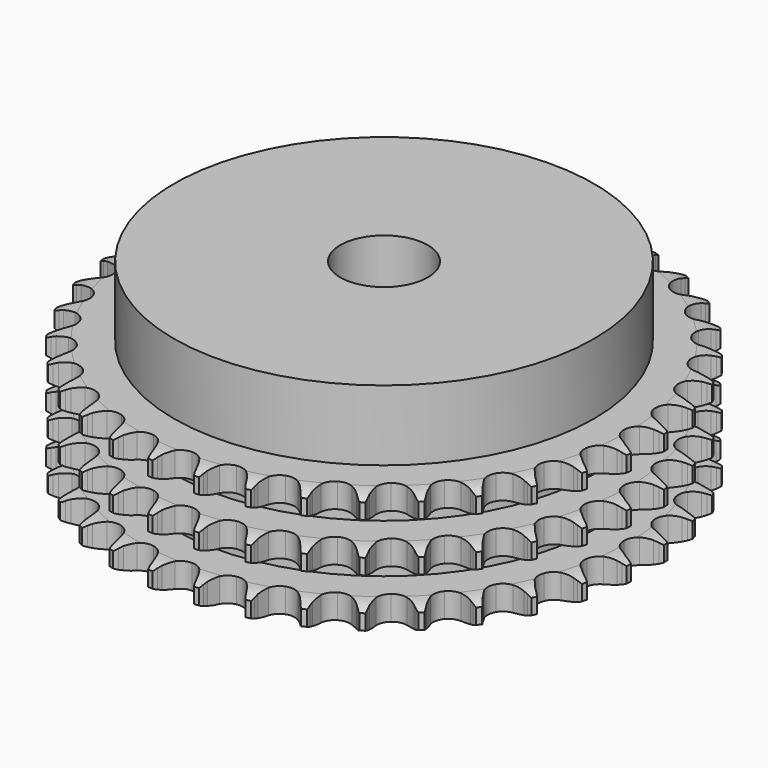
from build123d import *

# Parameters (mm, degrees)
PAD_DEPTH         = 34.9
SKETCH001_R       = 60
PAD001_DEPTH      = 55
SKETCH002_R       = 12.5
POCKET_DEPTH      = 0.001
POCKET_DEPTH_BACK = 55.001


with BuildPart() as part:
    # Sprocket → Pad (new body)
    with BuildSketch(Plane.XY):
        with BuildLine():
            ThreePointArc((-6.681952, 76.375066), (-5.936504, 75.349969), (-5.391044, 74.205858))
            Line((-5.391044, 74.205858), (-4.975926, 73.078951))
            ThreePointArc((-4.975926, 73.078951), (-4.31882, 71.625876), (-3.46066, 70.281713))
            ThreePointArc((-3.46066, 70.281713), (-1.936288, 69.002613), (0, 68.543704))
            ThreePointArc((0, 68.543704), (1.936288, 69.002613), (3.46066, 70.281713))
            ThreePointArc((3.46066, 70.281713), (4.31882, 71.625876), (4.975926, 73.078951))
            Line((4.975926, 73.078951), (5.391044, 74.205858))
            ThreePointArc((5.391044, 74.205858), (5.936504, 75.349969), (6.681952, 76.375066))
            ThreePointArc((6.681952, 76.375066), (7.23807, 75.236097), (7.57657, 74.01465))
            Line((7.57657, 74.01465), (7.789696, 72.832778))
            ThreePointArc((7.789696, 72.832778), (8.184495, 71.287674), (8.796206, 69.814913))
            ThreePointArc((8.796206, 69.814913), (10.075307, 68.290541), (11.902489, 67.502371))
            ThreePointArc((11.902489, 67.502371), (13.889049, 67.618075), (15.612376, 68.613039))
            Line((15.612376, 68.613039), (17.590357, 71.104657))
            ThreePointArc((17.590357, 71.104657), (17.87859, 71.631673), (18.194854, 72.14236))
            ThreePointArc((18.194854, 72.14236), (18.9307, 73.174371), (19.84283, 74.054448))
            ThreePointArc((19.84283, 74.054448), (20.192718, 72.836214), (20.313974, 71.574543))
            Line((20.313974, 71.574543), (20.318632, 70.373618))
            ThreePointArc((20.318632, 70.373618), (20.439129, 68.783431), (20.785805, 67.226823))
            ThreePointArc((20.785805, 67.226823), (21.780768, 65.503496), (23.443328, 64.410013))
            ThreePointArc((23.443328, 64.410013), (25.419799, 64.178997), (27.289718, 64.859592))
            Line((27.289718, 64.859592), (29.670314, 66.969884))
            ThreePointArc((29.670314, 66.969884), (30.045683, 67.438842), (30.445823, 67.886852))
            ThreePointArc((30.445823, 67.886852), (31.349696, 68.775406), (32.400792, 69.483724))
            ThreePointArc((32.400792, 69.483724), (32.533822, 68.22324), (32.434148, 66.95968))
            Line((32.434148, 66.95968), (32.230197, 65.776191))
            ThreePointArc((32.230197, 65.776191), (32.07273, 64.189238), (32.143837, 62.596079))
            ThreePointArc((32.143837, 62.596079), (32.824432, 60.72616), (34.271852, 59.360589))
            ThreePointArc((34.271852, 59.360589), (36.178181, 58.789872), (38.137876, 59.135419))
            Line((38.137876, 59.135419), (40.848754, 60.800265))
            ThreePointArc((40.848754, 60.800265), (41.299854, 61.196917), (41.77171, 61.568637))
            ThreePointArc((41.77171, 61.568637), (42.816148, 62.286736), (43.974274, 62.801771))
            ThreePointArc((43.974274, 62.801771), (43.886401, 61.537337), (43.568827, 60.310282))
            Line((43.568827, 60.310282), (43.162463, 59.180188))
            ThreePointArc((43.162463, 59.180188), (42.731818, 57.644689), (42.525195, 56.063385))
            ThreePointArc((42.525195, 56.063385), (42.870742, 54.10369), (44.059044, 52.507524))
            ThreePointArc((44.059044, 52.507524), (45.837307, 51.614446), (47.827234, 51.614446))
            Line((47.827234, 51.614446), (50.786025, 52.78326))
            ThreePointArc((50.786025, 52.78326), (51.299149, 53.095554), (51.828386, 53.379689))
            ThreePointArc((51.828386, 53.379689), (52.981653, 53.905514), (54.211619, 54.211619))
            ThreePointArc((54.211619, 54.211619), (53.905514, 52.981653), (53.379689, 51.828386))
            Line((53.379689, 51.828386), (52.78326, 50.786025))
            ThreePointArc((52.78326, 50.786025), (52.09252, 49.348634), (51.614446, 47.827234))
            ThreePointArc((51.614446, 47.827234), (51.614446, 45.837307), (52.507524, 44.059044))
            ThreePointArc((52.507524, 44.059044), (54.10369, 42.870742), (56.063385, 42.525195))
            Line((56.063385, 42.525195), (59.180188, 43.162463))
            ThreePointArc((59.180188, 43.162463), (59.739746, 43.380909), (60.310282, 43.568827))
            ThreePointArc((60.310282, 43.568827), (61.537337, 43.886401), (62.801771, 43.974274))
            ThreePointArc((62.801771, 43.974274), (62.286736, 42.816148), (61.568637, 41.77171))
            Line((61.568637, 41.77171), (60.800265, 40.848754))
            ThreePointArc((60.800265, 40.848754), (59.870418, 39.553146), (59.135419, 38.137876))
            ThreePointArc((59.135419, 38.137876), (58.789872, 36.178181), (59.360589, 34.271852))
            ThreePointArc((59.360589, 34.271852), (60.72616, 32.824432), (62.596079, 32.143837))
            Line((62.596079, 32.143837), (65.776191, 32.230197))
            ThreePointArc((65.776191, 32.230197), (66.365181, 32.348157), (66.95968, 32.434148))
            ThreePointArc((66.95968, 32.434148), (68.22324, 32.533822), (69.483724, 32.400792))
            ThreePointArc((69.483724, 32.400792), (68.775406, 31.349696), (67.886852, 30.445823))
            Line((67.886852, 30.445823), (66.969884, 29.670314))
            ThreePointArc((66.969884, 29.670314), (65.829184, 28.555856), (64.859592, 27.289718))
            ThreePointArc((64.859592, 27.289718), (64.178997, 25.419799), (64.410013, 23.443328))
            ThreePointArc((64.410013, 23.443328), (65.503496, 21.780768), (67.226823, 20.785805))
            Line((67.226823, 20.785805), (70.373618, 20.318632))
            ThreePointArc((70.373618, 20.318632), (70.974143, 20.332524), (71.574543, 20.313974))
            ThreePointArc((71.574543, 20.313974), (72.836214, 20.192718), (74.054448, 19.84283))
            ThreePointArc((74.054448, 19.84283), (73.174371, 18.9307), (72.14236, 18.194854))
            Line((72.14236, 18.194854), (71.104657, 17.590357))
            ThreePointArc((71.104657, 17.590357), (69.787763, 16.69091), (68.613039, 15.612376))
            ThreePointArc((68.613039, 15.612376), (67.618075, 13.889049), (67.502371, 11.902489))
            ThreePointArc((67.502371, 11.902489), (68.290541, 10.075307), (69.814913, 8.796206))
            Line((69.814913, 8.796206), (72.832778, 7.789696))
            ThreePointArc((72.832778, 7.789696), (73.426592, 7.699096), (74.01465, 7.57657))
            ThreePointArc((74.01465, 7.57657), (75.236097, 7.23807), (76.375066, 6.681952))
            ThreePointArc((76.375066, 6.681952), (75.349969, 5.936504), (74.205858, 5.391044))
            Line((74.205858, 5.391044), (73.078951, 4.975926))
            ThreePointArc((73.078951, 4.975926), (71.625876, 4.31882), (70.281713, 3.46066))
            ThreePointArc((70.281713, 3.46066), (69.002613, 1.936288), (68.543704, 0))
            ThreePointArc((68.543704, 0), (69.002613, -1.936288), (70.281713, -3.46066))
            Line((70.281713, -3.46066), (73.078951, -4.975926))
            ThreePointArc((73.078951, -4.975926), (73.648011, -5.168264), (74.205858, -5.391044))
            ThreePointArc((74.205858, -5.391044), (75.349969, -5.936504), (76.375066, -6.681952))
            ThreePointArc((76.375066, -6.681952), (75.236097, -7.23807), (74.01465, -7.57657))
            Line((74.01465, -7.57657), (72.832778, -7.789696))
            ThreePointArc((72.832778, -7.789696), (71.287674, -8.184495), (69.814913, -8.796206))
            ThreePointArc((69.814913, -8.796206), (68.290541, -10.075307), (67.502371, -11.902489))
            ThreePointArc((67.502371, -11.902489), (67.618075, -13.889049), (68.613039, -15.612376))
            Line((68.613039, -15.612376), (71.104657, -17.590357))
            ThreePointArc((71.104657, -17.590357), (71.631673, -17.87859), (72.14236, -18.194854))
            ThreePointArc((72.14236, -18.194854), (73.174371, -18.9307), (74.054448, -19.84283))
            ThreePointArc((74.054448, -19.84283), (72.836214, -20.192718), (71.574543, -20.313974))
            Line((71.574543, -20.313974), (70.373618, -20.318632))
            ThreePointArc((70.373618, -20.318632), (68.783431, -20.439129), (67.226823, -20.785805))
            ThreePointArc((67.226823, -20.785805), (65.503496, -21.780768), (64.410013, -23.443328))
            ThreePointArc((64.410013, -23.443328), (64.178997, -25.419799), (64.859592, -27.289718))
            Line((64.859592, -27.289718), (66.969884, -29.670314))
            ThreePointArc((66.969884, -29.670314), (67.438842, -30.045683), (67.886852, -30.445823))
            ThreePointArc((67.886852, -30.445823), (68.775406, -31.349696), (69.483724, -32.400792))
            ThreePointArc((69.483724, -32.400792), (68.22324, -32.533822), (66.95968, -32.434148))
            Line((66.95968, -32.434148), (65.776191, -32.230197))
            ThreePointArc((65.776191, -32.230197), (64.189238, -32.07273), (62.596079, -32.143837))
            ThreePointArc((62.596079, -32.143837), (60.72616, -32.824432), (59.360589, -34.271852))
            ThreePointArc((59.360589, -34.271852), (58.789872, -36.178181), (59.135419, -38.137876))
            Line((59.135419, -38.137876), (60.800265, -40.848754))
            ThreePointArc((60.800265, -40.848754), (61.196917, -41.299854), (61.568637, -41.77171))
            ThreePointArc((61.568637, -41.77171), (62.286736, -42.816148), (62.801771, -43.974274))
            ThreePointArc((62.801771, -43.974274), (61.537337, -43.886401), (60.310282, -43.568827))
            Line((60.310282, -43.568827), (59.180188, -43.162463))
            ThreePointArc((59.180188, -43.162463), (57.644689, -42.731818), (56.063385, -42.525195))
            ThreePointArc((56.063385, -42.525195), (54.10369, -42.870742), (52.507524, -44.059044))
            ThreePointArc((52.507524, -44.059044), (51.614446, -45.837307), (51.614446, -47.827234))
            Line((51.614446, -47.827234), (52.78326, -50.786025))
            ThreePointArc((52.78326, -50.786025), (53.095554, -51.299149), (53.379689, -51.828386))
            ThreePointArc((53.379689, -51.828386), (53.905514, -52.981653), (54.211619, -54.211619))
            ThreePointArc((54.211619, -54.211619), (52.981653, -53.905514), (51.828386, -53.379689))
            Line((51.828386, -53.379689), (50.786025, -52.78326))
            ThreePointArc((50.786025, -52.78326), (49.348634, -52.09252), (47.827234, -51.614446))
            ThreePointArc((47.827234, -51.614446), (45.837307, -51.614446), (44.059044, -52.507524))
            ThreePointArc((44.059044, -52.507524), (42.870742, -54.10369), (42.525195, -56.063385))
            Line((42.525195, -56.063385), (43.162463, -59.180188))
            ThreePointArc((43.162463, -59.180188), (43.380909, -59.739746), (43.568827, -60.310282))
            ThreePointArc((43.568827, -60.310282), (43.886401, -61.537337), (43.974274, -62.801771))
            ThreePointArc((43.974274, -62.801771), (42.816148, -62.286736), (41.77171, -61.568637))
            Line((41.77171, -61.568637), (40.848754, -60.800265))
            ThreePointArc((40.848754, -60.800265), (39.553146, -59.870418), (38.137876, -59.135419))
            ThreePointArc((38.137876, -59.135419), (36.178181, -58.789872), (34.271852, -59.360589))
            ThreePointArc((34.271852, -59.360589), (32.824432, -60.72616), (32.143837, -62.596079))
            Line((32.143837, -62.596079), (32.230197, -65.776191))
            ThreePointArc((32.230197, -65.776191), (32.348157, -66.365181), (32.434148, -66.95968))
            ThreePointArc((32.434148, -66.95968), (32.533822, -68.22324), (32.400792, -69.483724))
            ThreePointArc((32.400792, -69.483724), (31.349696, -68.775406), (30.445823, -67.886852))
            Line((30.445823, -67.886852), (29.670314, -66.969884))
            ThreePointArc((29.670314, -66.969884), (28.555856, -65.829184), (27.289718, -64.859592))
            ThreePointArc((27.289718, -64.859592), (25.419799, -64.178997), (23.443328, -64.410013))
            ThreePointArc((23.443328, -64.410013), (21.780768, -65.503496), (20.785805, -67.226823))
            Line((20.785805, -67.226823), (20.318632, -70.373618))
            ThreePointArc((20.318632, -70.373618), (20.332524, -70.974143), (20.313974, -71.574543))
            ThreePointArc((20.313974, -71.574543), (20.192718, -72.836214), (19.84283, -74.054448))
            ThreePointArc((19.84283, -74.054448), (18.9307, -73.174371), (18.194854, -72.14236))
            Line((18.194854, -72.14236), (17.590357, -71.104657))
            ThreePointArc((17.590357, -71.104657), (16.69091, -69.787763), (15.612376, -68.613039))
            ThreePointArc((15.612376, -68.613039), (13.889049, -67.618075), (11.902489, -67.502371))
            ThreePointArc((11.902489, -67.502371), (10.075307, -68.290541), (8.796206, -69.814913))
            Line((8.796206, -69.814913), (7.789696, -72.832778))
            ThreePointArc((7.789696, -72.832778), (7.699096, -73.426592), (7.57657, -74.01465))
            ThreePointArc((7.57657, -74.01465), (7.23807, -75.236097), (6.681952, -76.375066))
            ThreePointArc((6.681952, -76.375066), (5.936504, -75.349969), (5.391044, -74.205858))
            Line((5.391044, -74.205858), (4.975926, -73.078951))
            ThreePointArc((4.975926, -73.078951), (4.31882, -71.625876), (3.46066, -70.281713))
            ThreePointArc((3.46066, -70.281713), (1.936288, -69.002613), (0, -68.543704))
            ThreePointArc((0, -68.543704), (-1.936288, -69.002613), (-3.46066, -70.281713))
            Line((-3.46066, -70.281713), (-4.975926, -73.078951))
            ThreePointArc((-4.975926, -73.078951), (-5.168264, -73.648011), (-5.391044, -74.205858))
            ThreePointArc((-5.391044, -74.205858), (-5.936504, -75.349969), (-6.681952, -76.375066))
            ThreePointArc((-6.681952, -76.375066), (-7.23807, -75.236097), (-7.57657, -74.01465))
            Line((-7.57657, -74.01465), (-7.789696, -72.832778))
            ThreePointArc((-7.789696, -72.832778), (-8.184495, -71.287674), (-8.796206, -69.814913))
            ThreePointArc((-8.796206, -69.814913), (-10.075307, -68.290541), (-11.902489, -67.502371))
            ThreePointArc((-11.902489, -67.502371), (-13.889049, -67.618075), (-15.612376, -68.613039))
            Line((-15.612376, -68.613039), (-17.590357, -71.104657))
            ThreePointArc((-17.590357, -71.104657), (-17.87859, -71.631673), (-18.194854, -72.14236))
            ThreePointArc((-18.194854, -72.14236), (-18.9307, -73.174371), (-19.84283, -74.054448))
            ThreePointArc((-19.84283, -74.054448), (-20.192718, -72.836214), (-20.313974, -71.574543))
            Line((-20.313974, -71.574543), (-20.318632, -70.373618))
            ThreePointArc((-20.318632, -70.373618), (-20.439129, -68.783431), (-20.785805, -67.226823))
            ThreePointArc((-20.785805, -67.226823), (-21.780768, -65.503496), (-23.443328, -64.410013))
            ThreePointArc((-23.443328, -64.410013), (-25.419799, -64.178997), (-27.289718, -64.859592))
            Line((-27.289718, -64.859592), (-29.670314, -66.969884))
            ThreePointArc((-29.670314, -66.969884), (-30.045683, -67.438842), (-30.445823, -67.886852))
            ThreePointArc((-30.445823, -67.886852), (-31.349696, -68.775406), (-32.400792, -69.483724))
            ThreePointArc((-32.400792, -69.483724), (-32.533822, -68.22324), (-32.434148, -66.95968))
            Line((-32.434148, -66.95968), (-32.230197, -65.776191))
            ThreePointArc((-32.230197, -65.776191), (-32.07273, -64.189238), (-32.143837, -62.596079))
            ThreePointArc((-32.143837, -62.596079), (-32.824432, -60.72616), (-34.271852, -59.360589))
            ThreePointArc((-34.271852, -59.360589), (-36.178181, -58.789872), (-38.137876, -59.135419))
            Line((-38.137876, -59.135419), (-40.848754, -60.800265))
            ThreePointArc((-40.848754, -60.800265), (-41.299854, -61.196917), (-41.77171, -61.568637))
            ThreePointArc((-41.77171, -61.568637), (-42.816148, -62.286736), (-43.974274, -62.801771))
            ThreePointArc((-43.974274, -62.801771), (-43.886401, -61.537337), (-43.568827, -60.310282))
            Line((-43.568827, -60.310282), (-43.162463, -59.180188))
            ThreePointArc((-43.162463, -59.180188), (-42.731818, -57.644689), (-42.525195, -56.063385))
            ThreePointArc((-42.525195, -56.063385), (-42.870742, -54.10369), (-44.059044, -52.507524))
            ThreePointArc((-44.059044, -52.507524), (-45.837307, -51.614446), (-47.827234, -51.614446))
            Line((-47.827234, -51.614446), (-50.786025, -52.78326))
            ThreePointArc((-50.786025, -52.78326), (-51.299149, -53.095554), (-51.828386, -53.379689))
            ThreePointArc((-51.828386, -53.379689), (-52.981653, -53.905514), (-54.211619, -54.211619))
            ThreePointArc((-54.211619, -54.211619), (-53.905514, -52.981653), (-53.379689, -51.828386))
            Line((-53.379689, -51.828386), (-52.78326, -50.786025))
            ThreePointArc((-52.78326, -50.786025), (-52.09252, -49.348634), (-51.614446, -47.827234))
            ThreePointArc((-51.614446, -47.827234), (-51.614446, -45.837307), (-52.507524, -44.059044))
            ThreePointArc((-52.507524, -44.059044), (-54.10369, -42.870742), (-56.063385, -42.525195))
            Line((-56.063385, -42.525195), (-59.180188, -43.162463))
            ThreePointArc((-59.180188, -43.162463), (-59.739746, -43.380909), (-60.310282, -43.568827))
            ThreePointArc((-60.310282, -43.568827), (-61.537337, -43.886401), (-62.801771, -43.974274))
            ThreePointArc((-62.801771, -43.974274), (-62.286736, -42.816148), (-61.568637, -41.77171))
            Line((-61.568637, -41.77171), (-60.800265, -40.848754))
            ThreePointArc((-60.800265, -40.848754), (-59.870418, -39.553146), (-59.135419, -38.137876))
            ThreePointArc((-59.135419, -38.137876), (-58.789872, -36.178181), (-59.360589, -34.271852))
            ThreePointArc((-59.360589, -34.271852), (-60.72616, -32.824432), (-62.596079, -32.143837))
            Line((-62.596079, -32.143837), (-65.776191, -32.230197))
            ThreePointArc((-65.776191, -32.230197), (-66.365181, -32.348157), (-66.95968, -32.434148))
            ThreePointArc((-66.95968, -32.434148), (-68.22324, -32.533822), (-69.483724, -32.400792))
            ThreePointArc((-69.483724, -32.400792), (-68.775406, -31.349696), (-67.886852, -30.445823))
            Line((-67.886852, -30.445823), (-66.969884, -29.670314))
            ThreePointArc((-66.969884, -29.670314), (-65.829184, -28.555856), (-64.859592, -27.289718))
            ThreePointArc((-64.859592, -27.289718), (-64.178997, -25.419799), (-64.410013, -23.443328))
            ThreePointArc((-64.410013, -23.443328), (-65.503496, -21.780768), (-67.226823, -20.785805))
            Line((-67.226823, -20.785805), (-70.373618, -20.318632))
            ThreePointArc((-70.373618, -20.318632), (-70.974143, -20.332524), (-71.574543, -20.313974))
            ThreePointArc((-71.574543, -20.313974), (-72.836214, -20.192718), (-74.054448, -19.84283))
            ThreePointArc((-74.054448, -19.84283), (-73.174371, -18.9307), (-72.14236, -18.194854))
            Line((-72.14236, -18.194854), (-71.104657, -17.590357))
            ThreePointArc((-71.104657, -17.590357), (-69.787763, -16.69091), (-68.613039, -15.612376))
            ThreePointArc((-68.613039, -15.612376), (-67.618075, -13.889049), (-67.502371, -11.902489))
            ThreePointArc((-67.502371, -11.902489), (-68.290541, -10.075307), (-69.814913, -8.796206))
            Line((-69.814913, -8.796206), (-72.832778, -7.789696))
            ThreePointArc((-72.832778, -7.789696), (-73.426592, -7.699096), (-74.01465, -7.57657))
            ThreePointArc((-74.01465, -7.57657), (-75.236097, -7.23807), (-76.375066, -6.681952))
            ThreePointArc((-76.375066, -6.681952), (-75.349969, -5.936504), (-74.205858, -5.391044))
            Line((-74.205858, -5.391044), (-73.078951, -4.975926))
            ThreePointArc((-73.078951, -4.975926), (-71.625876, -4.31882), (-70.281713, -3.46066))
            ThreePointArc((-70.281713, -3.46066), (-69.002613, -1.936288), (-68.543704, 0))
            ThreePointArc((-68.543704, 0), (-69.002613, 1.936288), (-70.281713, 3.46066))
            Line((-70.281713, 3.46066), (-73.078951, 4.975926))
            ThreePointArc((-73.078951, 4.975926), (-73.648011, 5.168264), (-74.205858, 5.391044))
            ThreePointArc((-74.205858, 5.391044), (-75.349969, 5.936504), (-76.375066, 6.681952))
            ThreePointArc((-76.375066, 6.681952), (-75.236097, 7.23807), (-74.01465, 7.57657))
            Line((-74.01465, 7.57657), (-72.832778, 7.789696))
            ThreePointArc((-72.832778, 7.789696), (-71.287674, 8.184495), (-69.814913, 8.796206))
            ThreePointArc((-69.814913, 8.796206), (-68.290541, 10.075307), (-67.502371, 11.902489))
            ThreePointArc((-67.502371, 11.902489), (-67.618075, 13.889049), (-68.613039, 15.612376))
            Line((-68.613039, 15.612376), (-71.104657, 17.590357))
            ThreePointArc((-71.104657, 17.590357), (-71.631673, 17.87859), (-72.14236, 18.194854))
            ThreePointArc((-72.14236, 18.194854), (-73.174371, 18.9307), (-74.054448, 19.84283))
            ThreePointArc((-74.054448, 19.84283), (-72.836214, 20.192718), (-71.574543, 20.313974))
            Line((-71.574543, 20.313974), (-70.373618, 20.318632))
            ThreePointArc((-70.373618, 20.318632), (-68.783431, 20.439129), (-67.226823, 20.785805))
            ThreePointArc((-67.226823, 20.785805), (-65.503496, 21.780768), (-64.410013, 23.443328))
            ThreePointArc((-64.410013, 23.443328), (-64.178997, 25.419799), (-64.859592, 27.289718))
            Line((-64.859592, 27.289718), (-66.969884, 29.670314))
            ThreePointArc((-66.969884, 29.670314), (-67.438842, 30.045683), (-67.886852, 30.445823))
            ThreePointArc((-67.886852, 30.445823), (-68.775406, 31.349696), (-69.483724, 32.400792))
            ThreePointArc((-69.483724, 32.400792), (-68.22324, 32.533822), (-66.95968, 32.434148))
            Line((-66.95968, 32.434148), (-65.776191, 32.230197))
            ThreePointArc((-65.776191, 32.230197), (-64.189238, 32.07273), (-62.596079, 32.143837))
            ThreePointArc((-62.596079, 32.143837), (-60.72616, 32.824432), (-59.360589, 34.271852))
            ThreePointArc((-59.360589, 34.271852), (-58.789872, 36.178181), (-59.135419, 38.137876))
            Line((-59.135419, 38.137876), (-60.800265, 40.848754))
            ThreePointArc((-60.800265, 40.848754), (-61.196917, 41.299854), (-61.568637, 41.77171))
            ThreePointArc((-61.568637, 41.77171), (-62.286736, 42.816148), (-62.801771, 43.974274))
            ThreePointArc((-62.801771, 43.974274), (-61.537337, 43.886401), (-60.310282, 43.568827))
            Line((-60.310282, 43.568827), (-59.180188, 43.162463))
            ThreePointArc((-59.180188, 43.162463), (-57.644689, 42.731818), (-56.063385, 42.525195))
            ThreePointArc((-56.063385, 42.525195), (-54.10369, 42.870742), (-52.507524, 44.059044))
            ThreePointArc((-52.507524, 44.059044), (-51.614446, 45.837307), (-51.614446, 47.827234))
            Line((-51.614446, 47.827234), (-52.78326, 50.786025))
            ThreePointArc((-52.78326, 50.786025), (-53.095554, 51.299149), (-53.379689, 51.828386))
            ThreePointArc((-53.379689, 51.828386), (-53.905514, 52.981653), (-54.211619, 54.211619))
            ThreePointArc((-54.211619, 54.211619), (-52.981653, 53.905514), (-51.828386, 53.379689))
            Line((-51.828386, 53.379689), (-50.786025, 52.78326))
            ThreePointArc((-50.786025, 52.78326), (-49.348634, 52.09252), (-47.827234, 51.614446))
            ThreePointArc((-47.827234, 51.614446), (-45.837307, 51.614446), (-44.059044, 52.507524))
            ThreePointArc((-44.059044, 52.507524), (-42.870742, 54.10369), (-42.525195, 56.063385))
            Line((-42.525195, 56.063385), (-43.162463, 59.180188))
            ThreePointArc((-43.162463, 59.180188), (-43.380909, 59.739746), (-43.568827, 60.310282))
            ThreePointArc((-43.568827, 60.310282), (-43.886401, 61.537337), (-43.974274, 62.801771))
            ThreePointArc((-43.974274, 62.801771), (-42.816148, 62.286736), (-41.77171, 61.568637))
            Line((-41.77171, 61.568637), (-40.848754, 60.800265))
            ThreePointArc((-40.848754, 60.800265), (-39.553146, 59.870418), (-38.137876, 59.135419))
            ThreePointArc((-38.137876, 59.135419), (-36.178181, 58.789872), (-34.271852, 59.360589))
            ThreePointArc((-34.271852, 59.360589), (-32.824432, 60.72616), (-32.143837, 62.596079))
            Line((-32.143837, 62.596079), (-32.230197, 65.776191))
            ThreePointArc((-32.230197, 65.776191), (-32.348157, 66.365181), (-32.434148, 66.95968))
            ThreePointArc((-32.434148, 66.95968), (-32.533822, 68.22324), (-32.400792, 69.483724))
            ThreePointArc((-32.400792, 69.483724), (-31.349696, 68.775406), (-30.445823, 67.886852))
            Line((-30.445823, 67.886852), (-29.670314, 66.969884))
            ThreePointArc((-29.670314, 66.969884), (-28.555856, 65.829184), (-27.289718, 64.859592))
            ThreePointArc((-27.289718, 64.859592), (-25.419799, 64.178997), (-23.443328, 64.410013))
            ThreePointArc((-23.443328, 64.410013), (-21.780768, 65.503496), (-20.785805, 67.226823))
            Line((-20.785805, 67.226823), (-20.318632, 70.373618))
            ThreePointArc((-20.318632, 70.373618), (-20.332524, 70.974143), (-20.313974, 71.574543))
            ThreePointArc((-20.313974, 71.574543), (-20.192718, 72.836214), (-19.84283, 74.054448))
            ThreePointArc((-19.84283, 74.054448), (-18.9307, 73.174371), (-18.194854, 72.14236))
            Line((-18.194854, 72.14236), (-17.590357, 71.104657))
            ThreePointArc((-17.590357, 71.104657), (-16.69091, 69.787763), (-15.612376, 68.613039))
            ThreePointArc((-15.612376, 68.613039), (-13.889049, 67.618075), (-11.902489, 67.502371))
            ThreePointArc((-11.902489, 67.502371), (-10.075307, 68.290541), (-8.796206, 69.814913))
            Line((-8.796206, 69.814913), (-7.789696, 72.832778))
            ThreePointArc((-7.789696, 72.832778), (-7.699096, 73.426592), (-7.57657, 74.01465))
            ThreePointArc((-7.57657, 74.01465), (-7.23807, 75.236097), (-6.681952, 76.375066))
        make_face()
    extrude(amount=PAD_DEPTH)

    # Sketch → Groove (revolve, cut)
    with BuildSketch(Plane.XZ):
        with BuildLine():
            ThreePointArc((69.833431, 0), (72.74032, 0.329167), (75.5, 1.3))
            Line((75.5, 1.3), (75.5, 5.7))
            ThreePointArc((75.5, 5.7), (72.74032, 6.670833), (69.833431, 7))
            Line((60, 7), (69.833431, 7))
            Line((60, 7), (60, 13.95))
            Line((60, 13.95), (69.833431, 13.95))
            ThreePointArc((69.833431, 13.95), (72.74032, 14.279167), (75.5, 15.25))
            Line((75.5, 19.65), (75.5, 15.25))
            ThreePointArc((75.5, 19.65), (72.74032, 20.620833), (69.833431, 20.95))
            Line((60, 20.95), (69.833431, 20.95))
            Line((60, 27.9), (60, 20.95))
            Line((69.833431, 27.9), (60, 27.9))
            ThreePointArc((69.833431, 27.9), (72.74032, 28.229167), (75.5, 29.2))
            Line((75.5, 29.2), (75.5, 33.6))
            ThreePointArc((75.5, 33.6), (72.74032, 34.570833), (69.833431, 34.9))
            Line((69.833431, 34.9), (85.5, 34.9))
            Line((85.5, 34.9), (85.5, 0))
            Line((69.833431, 0), (85.5, 0))
        make_face()
    revolve(axis=Axis((0, 0, 0), (0, 0, 1)), mode=Mode.SUBTRACT)

    # Sketch001 → Pad001 (join)
    with BuildSketch(Plane.XY):
        Circle(SKETCH001_R)
    extrude(amount=PAD001_DEPTH)

    # Sketch002 → Pocket (cut, two sides)
    with BuildSketch(Plane.XY) as pocket_sk:
        Circle(SKETCH002_R)
    extrude(amount=-POCKET_DEPTH, mode=Mode.SUBTRACT)
    extrude(pocket_sk.sketch, amount=POCKET_DEPTH_BACK, mode=Mode.SUBTRACT)


solid = part.part
